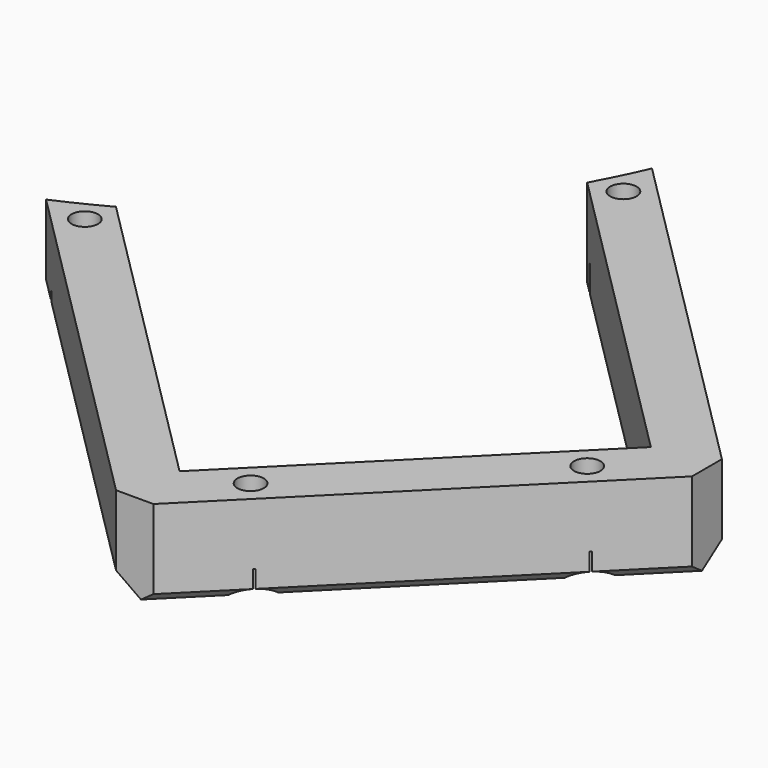
from build123d import *

# Parameters (mm, degrees)
CYLINDER1730_R              = 3
CYLINDER1730_DEPTH          = 3
CYLINDER1727_R              = 3
CYLINDER1727_DEPTH          = 3
CYLINDER1728_R              = 3
CYLINDER1728_DEPTH          = 3
CYLINDER1729_R              = 3
CYLINDER1729_DEPTH          = 3
COMPOUND871_PLACEMENT_ANGLE = 225
CYLINDER1734_R              = 1.5
CYLINDER1734_DEPTH          = 60
CYLINDER1731_R              = 1.5
CYLINDER1731_DEPTH          = 60
CYLINDER1732_R              = 1.5
CYLINDER1732_DEPTH          = 60
CYLINDER1733_R              = 1.5
CYLINDER1733_DEPTH          = 60
COMPOUND874_PLACEMENT_ANGLE = 225
CYLINDER1735_R              = 74
CYLINDER1735_DEPTH          = 40
BOX688_W                    = 42
BOX688_H                    = 62
BOX688_DEPTH                = 50
COMPOUND872_PLACEMENT_ANGLE = 225
BOX689_W                    = 54
BOX689_H                    = 68
BOX689_DEPTH                = 10
COMPOUND873_PLACEMENT_ANGLE = 225
CHAMFER054_SIZE             = 3
CHAMFER055_SIZE             = 2
CHAMFER056_SIZE             = 1


with BuildPart() as obj1:
    # Cylinder1730 → Cylinder1730 (new body)
    with BuildSketch(Plane(origin=(-24, 73, -80), x_dir=(1, 0, 0), z_dir=(0, 0, 1))):
        Circle(CYLINDER1730_R)
    extrude(amount=CYLINDER1730_DEPTH)


with BuildPart() as obj2:
    # Cylinder1727 → Cylinder1727 (new body)
    with BuildSketch(Plane(origin=(-15, 125, -80), x_dir=(1, 0, 0), z_dir=(0, 0, 1))):
        Circle(CYLINDER1727_R)
    extrude(amount=CYLINDER1727_DEPTH)


with BuildPart() as obj3:
    # Cylinder1728 → Cylinder1728 (new body)
    with BuildSketch(Plane(origin=(15, 125, -80), x_dir=(1, 0, 0), z_dir=(0, 0, 1))):
        Circle(CYLINDER1728_R)
    extrude(amount=CYLINDER1728_DEPTH)


with BuildPart() as compound871:
    # Cylinder1729 → Cylinder1729 (new body)
    with BuildSketch(Plane(origin=(24, 73, -80), x_dir=(1, 0, 0), z_dir=(0, 0, 1))):
        Circle(CYLINDER1729_R)
    extrude(amount=CYLINDER1729_DEPTH)

    # Compound871: union obj1, obj2, obj3
    add(obj1.part)
    add(obj2.part)
    add(obj3.part)


with BuildPart() as compound871_1:
    # Compound871 placement: moved
    add(compound871.part.moved(Location((0, 0, 135))).rotate(Axis((0, 0, 135), (0, 0, 1)), COMPOUND871_PLACEMENT_ANGLE))


with BuildPart() as obj4:
    # Cylinder1734 → Cylinder1734 (new body)
    with BuildSketch(Plane(origin=(-24, 73, -80), x_dir=(1, 0, 0), z_dir=(0, 0, 1))):
        Circle(CYLINDER1734_R)
    extrude(amount=CYLINDER1734_DEPTH)


with BuildPart() as obj5:
    # Cylinder1731 → Cylinder1731 (new body)
    with BuildSketch(Plane(origin=(-15, 125, -80), x_dir=(1, 0, 0), z_dir=(0, 0, 1))):
        Circle(CYLINDER1731_R)
    extrude(amount=CYLINDER1731_DEPTH)


with BuildPart() as obj6:
    # Cylinder1732 → Cylinder1732 (new body)
    with BuildSketch(Plane(origin=(15, 125, -80), x_dir=(1, 0, 0), z_dir=(0, 0, 1))):
        Circle(CYLINDER1732_R)
    extrude(amount=CYLINDER1732_DEPTH)


with BuildPart() as compound874:
    # Cylinder1733 → Cylinder1733 (new body)
    with BuildSketch(Plane(origin=(24, 73, -80), x_dir=(1, 0, 0), z_dir=(0, 0, 1))):
        Circle(CYLINDER1733_R)
    extrude(amount=CYLINDER1733_DEPTH)

    # Compound874: union obj4, obj5, obj6
    add(obj4.part)
    add(obj5.part)
    add(obj6.part)


with BuildPart() as compound874_1:
    # Compound874 placement: moved
    add(compound874.part.moved(Location((0, 0, 100))).rotate(Axis((0, 0, 100), (0, 0, 1)), COMPOUND874_PLACEMENT_ANGLE))


with BuildPart() as obj7:
    # Cylinder1735 → Cylinder1735 (new body)
    with BuildSketch(Plane.XY.offset(44)):
        Circle(CYLINDER1735_R)
    extrude(amount=CYLINDER1735_DEPTH)


with BuildPart() as compound872:
    # Box688 → Box688 (new body)
    with BuildSketch(Plane(origin=(-21.001071, 60.005081, 31), x_dir=(1, 0, 0), z_dir=(0, 0, 1))):
        with Locations((21, 31)):
            Rectangle(BOX688_W, BOX688_H)
    extrude(amount=BOX688_DEPTH)


with BuildPart() as compound872_1:
    # Compound872 placement: moved
    add(compound872.part.rotate(Axis((0, 0, 0), (0, 0, 1)), COMPOUND872_PLACEMENT_ANGLE))


with BuildPart() as cut512:
    # Box689 → Box689 (new body)
    with BuildSketch(Plane(origin=(-27.004408, 59.99801, 75), x_dir=(1, 0, 0), z_dir=(0, 0, 1))):
        with Locations((27, 34)):
            Rectangle(BOX689_W, BOX689_H)
    extrude(amount=BOX689_DEPTH)


with BuildPart() as cut512_1:
    # Compound873 placement: moved
    add(cut512.part.moved(Location((0, 0, -20))).rotate(Axis((0, 0, -20), (0, 0, 1)), COMPOUND873_PLACEMENT_ANGLE))

    # Cut502: cut Compound872
    add(compound872_1.part, mode=Mode.SUBTRACT)

    # Cut510: cut obj7
    add(obj7.part, mode=Mode.SUBTRACT)

    # Chamfer054
    chamfer054_edges = [cut512_1.edges().sort_by_distance(p)[0] for p in [
        (109.603261, -71.413261, 60),
        (71.419495, -109.597027, 60),
    ]]
    chamfer(chamfer054_edges, length=CHAMFER054_SIZE)

    # Chamfer055
    chamfer055_edges = [cut512_1.edges().sort_by_distance(p)[0] for p in [
        (87.647149, -49.457149, 55),
        (49.464605, -87.642137, 55),
    ]]
    chamfer(chamfer055_edges, length=CHAMFER055_SIZE)

    # Chamfer056
    chamfer056_edges = [cut512_1.edges().sort_by_distance(p)[0] for p in [
        (90.511378, -90.505144, 55),
    ]]
    chamfer(chamfer056_edges, length=CHAMFER056_SIZE)

    # Cut511: cut Compound874
    add(compound874_1.part, mode=Mode.SUBTRACT)

    # Cut512: cut Compound871
    add(compound871_1.part, mode=Mode.SUBTRACT)


solid = cut512_1.part
